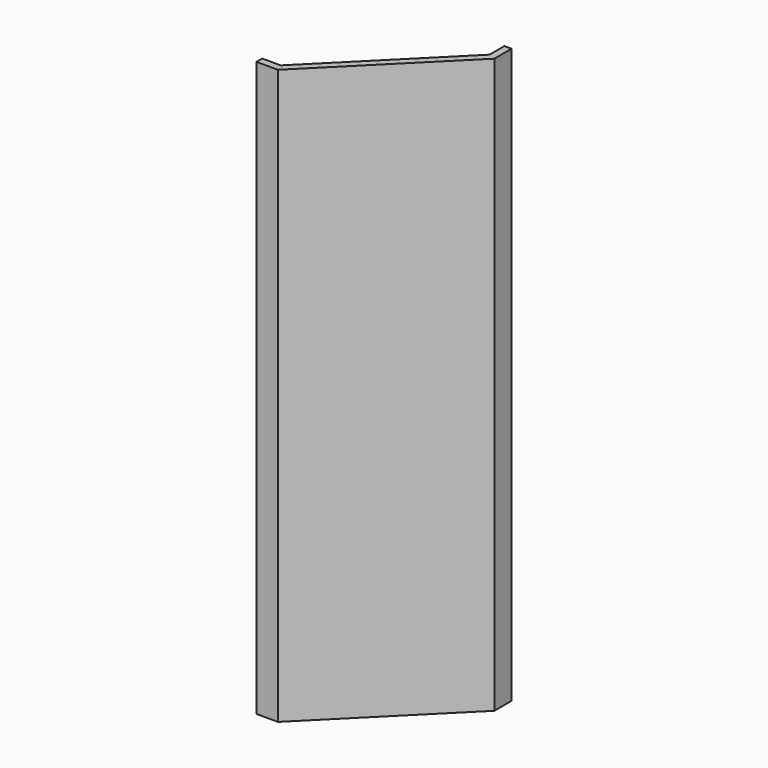
from build123d import *

# Parameters (mm, degrees)
F1_DEPTH = 20
F3_DEPTH = 50
F5_DEPTH = 90
F8_DEPTH = 1


with BuildPart() as f1:
    # F0 (on Top) → F1 (new body)
    with BuildSketch(Plane.XY):
        Polygon((-19.75, -17.7500005811), (-19.75, -19.75), (-13.75, -19.75), (19.75, 13.75), (19.75, 19.75), (17.7500005811, 19.75), (17.7500005811, 14.578426884), (-14.578426884, -17.7500005811), align=None)
    extrude(amount=F1_DEPTH)

    # F2 (on face) → F3 (join)
    with BuildSketch(Plane.XY.offset(20)):
        Polygon((-19.75, -19.75), (-13.75, -19.75), (19.75, 13.75), (19.75, 19.75), (11.25, 19.75), (11.25, 23.75), (7.75, 27.9211375741), (7.75, 24.8096899204), (9.25, 23.0220595315), (9.25, 19.75), (7.75, 19.75), (7.75, 17.7500005811), (14.3357871391, 11.164213442), (-11.164213442, -14.3357871391), (-17.7500005811, -7.75), (-19.75, -7.75), (-19.75, -9.25), (-23.0220595315, -9.25), (-24.8096899204, -7.75), (-27.9211375741, -7.75), (-23.75, -11.25), (-19.75, -11.25), align=None)
        Polygon((-17.7500005811, -17.7500005811), (-17.7500005811, -10.5784263029), (-12.5784265935, -15.7500002906), (-14.578426884, -17.7500005811), align=None, mode=Mode.SUBTRACT)
        Polygon((10.5784263029, 17.7500005811), (17.7500005811, 17.7500005811), (17.7500005811, 14.578426884), (15.7500002906, 12.5784265935), align=None, mode=Mode.SUBTRACT)
    extrude(amount=F3_DEPTH)

    # F4 (on face) → F5 (join)
    with BuildSketch(Plane.XY.offset(70)):
        Polygon((19.75, 13.75), (19.75, 19.75), (17.7500005811, 19.75), (17.7500005811, 14.578426884), (-14.578426884, -17.7500005811), (-19.75, -17.7500005811), (-19.75, -19.75), (-13.75, -19.75), align=None)
    extrude(amount=F5_DEPTH)

    # F7 (on mid) → F8 (join, symmetric)
    with BuildSketch(Plane.XY.offset(45)):
        Polygon((-23.0220595315, -9.25), (-19.75, -9.25), (-19.75, -7.75), (-24.8096899204, -7.75), align=None)
        Polygon((7.75, 19.75), (9.25, 19.75), (9.25, 23.0220595315), (7.75, 24.8096899204), align=None)
        Polygon((17.7500005811, 14.578426884), (17.7500005811, 17.7500005811), (10.5784263029, 17.7500005811), (15.7500002906, 12.5784265935), align=None)
        Polygon((-12.5784265935, -15.7500002906), (-17.7500005811, -10.5784263029), (-17.7500005811, -17.7500005811), (-14.578426884, -17.7500005811), align=None)
    extrude(amount=F8_DEPTH, both=True)


solid = f1.part
